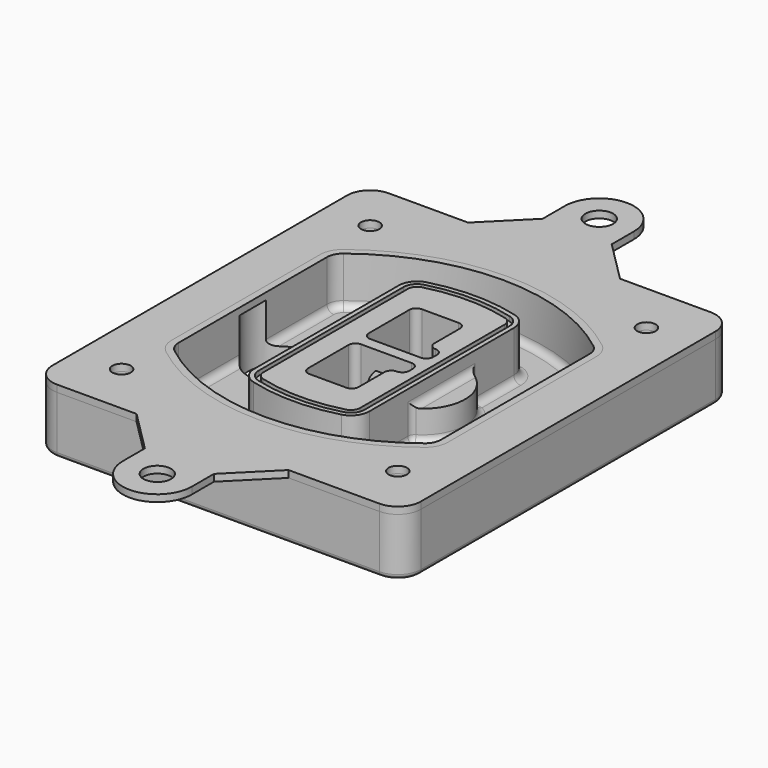
from build123d import *

# Parameters (mm, degrees)
F0_R      = 4
F1_DEPTH  = 25
F2_DEPTH  = 3
F3_DEPTH  = 18
F5_DEPTH  = 21
F6_DEPTH  = 2
F8_DEPTH  = 20
F9_DEPTH  = 16
F10_DEPTH = 25
F7_R      = 6
F7_R_2    = 4
F11_DEPTH = 6
F13_DEPTH = 9
F14_R     = 3
F15_R     = 2
F16_R     = 6
F16_R_2   = 4
F17_DEPTH = 3


with BuildPart() as f1:
    # F0 (on Top) → F1 (new body)
    with BuildSketch(Plane.XY):
        with BuildLine():
            ThreePointArc((-80, -80), (-77.0710678119, -87.0710678119), (-70, -90))
            Line((-70, -90), (70, -90))
            ThreePointArc((70, -90), (77.0710678119, -87.0710678119), (80, -80))
            Line((80, -80), (80, 80))
            ThreePointArc((80, 80), (77.0710678119, 87.0710678119), (70, 90))
            Line((70, 90), (-70, 90))
            ThreePointArc((-70, 90), (-77.0710678119, 87.0710678119), (-80, 80))
            Line((-80, 80), (-80, -80))
        make_face()
        with Locations((-60, -67.5)):
            Circle(F0_R, mode=Mode.SUBTRACT)
        with Locations((60, -67.5)):
            Circle(F0_R, mode=Mode.SUBTRACT)
        with Locations((-60, 67.5)):
            Circle(F0_R, mode=Mode.SUBTRACT)
        with BuildLine():
            ThreePointArc((-64, 40.2934422872), (-62.5820384798, 46.4328484224), (-58.6153846154, 51.3286200352))
            ThreePointArc((-58.6153846154, 51.3286200352), (0, 71.5), (58.6153846154, 51.3286200352))
            ThreePointArc((58.6153846154, 51.3286200352), (62.5820384798, 46.4328484224), (64, 40.2934422872))
            Line((64, 40.2934422872), (64, -40.2934422872))
            ThreePointArc((64, -40.2934422872), (62.5820384798, -46.4328484224), (58.6153846154, -51.3286200352))
            ThreePointArc((58.6153846154, -51.3286200352), (0, -71.5), (-58.6153846154, -51.3286200352))
            ThreePointArc((-58.6153846154, -51.3286200352), (-62.5820384798, -46.4328484224), (-64, -40.2934422872))
            Line((-64, -40.2934422872), (-64, 40.2934422872))
        make_face(mode=Mode.SUBTRACT)
        with Locations((60, 67.5)):
            Circle(F0_R, mode=Mode.SUBTRACT)
        with BuildLine():
            ThreePointArc((58.6153846154, 51.3286200352), (0, 71.5), (-58.6153846154, 51.3286200352))
            ThreePointArc((-58.6153846154, 51.3286200352), (-62.5820384798, 46.4328484224), (-64, 40.2934422872))
            Line((-64, 40.2934422872), (-64, -40.2934422872))
            ThreePointArc((-64, -40.2934422872), (-62.5820384798, -46.4328484224), (-58.6153846154, -51.3286200352))
            ThreePointArc((-58.6153846154, -51.3286200352), (0, -71.5), (58.6153846154, -51.3286200352))
            ThreePointArc((58.6153846154, -51.3286200352), (62.5820384798, -46.4328484224), (64, -40.2934422872))
            Line((64, -40.2934422872), (64, 40.2934422872))
            ThreePointArc((64, 40.2934422872), (62.5820384798, 46.4328484224), (58.6153846154, 51.3286200352))
        make_face()
        with BuildLine():
            Line((-60, -40.2934422872), (-60, 40.2934422872))
            ThreePointArc((-60, 40.2934422872), (-58.9871703427, 44.6787323838), (-56.1538461538, 48.1757121072))
            ThreePointArc((-56.1538461538, 48.1757121072), (0, 67.5), (56.1538461538, 48.1757121072))
            ThreePointArc((56.1538461538, 48.1757121072), (58.9871703427, 44.6787323838), (60, 40.2934422872))
            Line((60, 40.2934422872), (60, -40.2934422872))
            ThreePointArc((60, -40.2934422872), (58.9871703427, -44.6787323838), (56.1538461538, -48.1757121072))
            ThreePointArc((56.1538461538, -48.1757121072), (0, -67.5), (-56.1538461538, -48.1757121072))
            ThreePointArc((-56.1538461538, -48.1757121072), (-58.9871703427, -44.6787323838), (-60, -40.2934422872))
        make_face(mode=Mode.SUBTRACT)
        with BuildLine():
            ThreePointArc((-56.1538461538, 48.1757121072), (-58.9871703427, 44.6787323838), (-60, 40.2934422872))
            Line((-60, 40.2934422872), (-60, -40.2934422872))
            ThreePointArc((-60, -40.2934422872), (-58.9871703427, -44.6787323838), (-56.1538461538, -48.1757121072))
            ThreePointArc((-56.1538461538, -48.1757121072), (0, -67.5), (56.1538461538, -48.1757121072))
            ThreePointArc((56.1538461538, -48.1757121072), (58.9871703427, -44.6787323838), (60, -40.2934422872))
            Line((60, -40.2934422872), (60, 40.2934422872))
            ThreePointArc((60, 40.2934422872), (58.9871703427, 44.6787323838), (56.1538461538, 48.1757121072))
            ThreePointArc((56.1538461538, 48.1757121072), (0, 67.5), (-56.1538461538, 48.1757121072))
        make_face()
        with BuildLine():
            ThreePointArc((54.3076923077, 45.8110311612), (56.2910192399, 43.3631453548), (57, 40.2934422872))
            Line((57, 40.2934422872), (57, -40.2934422872))
            ThreePointArc((57, -40.2934422872), (56.2910192399, -43.3631453548), (54.3076923077, -45.8110311612))
            ThreePointArc((54.3076923077, -45.8110311612), (0, -64.5), (-54.3076923077, -45.8110311612))
            ThreePointArc((-54.3076923077, -45.8110311612), (-56.2910192399, -43.3631453548), (-57, -40.2934422872))
            Line((-57, -40.2934422872), (-57, 40.2934422872))
            ThreePointArc((-57, 40.2934422872), (-56.2910192399, 43.3631453548), (-54.3076923077, 45.8110311612))
            ThreePointArc((-54.3076923077, 45.8110311612), (0, 64.5), (54.3076923077, 45.8110311612))
        make_face(mode=Mode.SUBTRACT)
        with BuildLine():
            Line((57, -40.2934422872), (57, 40.2934422872))
            ThreePointArc((57, 40.2934422872), (56.2910192399, 43.3631453548), (54.3076923077, 45.8110311612))
            ThreePointArc((54.3076923077, 45.8110311612), (0, 64.5), (-54.3076923077, 45.8110311612))
            ThreePointArc((-54.3076923077, 45.8110311612), (-56.2910192399, 43.3631453548), (-57, 40.2934422872))
            Line((-57, 40.2934422872), (-57, -40.2934422872))
            ThreePointArc((-57, -40.2934422872), (-56.2910192399, -43.3631453548), (-54.3076923077, -45.8110311612))
            ThreePointArc((-54.3076923077, -45.8110311612), (0, -64.5), (54.3076923077, -45.8110311612))
            ThreePointArc((54.3076923077, -45.8110311612), (56.2910192399, -43.3631453548), (57, -40.2934422872))
        make_face()
    extrude(amount=-F1_DEPTH)

    # F0 (on Top) → F2 (join)
    with BuildSketch(Plane.XY):
        with BuildLine():
            ThreePointArc((-56.1538461538, 48.1757121072), (-58.9871703427, 44.6787323838), (-60, 40.2934422872))
            Line((-60, 40.2934422872), (-60, -40.2934422872))
            ThreePointArc((-60, -40.2934422872), (-58.9871703427, -44.6787323838), (-56.1538461538, -48.1757121072))
            ThreePointArc((-56.1538461538, -48.1757121072), (0, -67.5), (56.1538461538, -48.1757121072))
            ThreePointArc((56.1538461538, -48.1757121072), (58.9871703427, -44.6787323838), (60, -40.2934422872))
            Line((60, -40.2934422872), (60, 40.2934422872))
            ThreePointArc((60, 40.2934422872), (58.9871703427, 44.6787323838), (56.1538461538, 48.1757121072))
            ThreePointArc((56.1538461538, 48.1757121072), (0, 67.5), (-56.1538461538, 48.1757121072))
        make_face()
        with BuildLine():
            ThreePointArc((54.3076923077, 45.8110311612), (56.2910192399, 43.3631453548), (57, 40.2934422872))
            Line((57, 40.2934422872), (57, -40.2934422872))
            ThreePointArc((57, -40.2934422872), (56.2910192399, -43.3631453548), (54.3076923077, -45.8110311612))
            ThreePointArc((54.3076923077, -45.8110311612), (0, -64.5), (-54.3076923077, -45.8110311612))
            ThreePointArc((-54.3076923077, -45.8110311612), (-56.2910192399, -43.3631453548), (-57, -40.2934422872))
            Line((-57, -40.2934422872), (-57, 40.2934422872))
            ThreePointArc((-57, 40.2934422872), (-56.2910192399, 43.3631453548), (-54.3076923077, 45.8110311612))
            ThreePointArc((-54.3076923077, 45.8110311612), (0, 64.5), (54.3076923077, 45.8110311612))
        make_face(mode=Mode.SUBTRACT)
    extrude(amount=F2_DEPTH)

    # F0 (on Top) → F3 (cut)
    with BuildSketch(Plane.XY):
        with BuildLine():
            Line((57, -40.2934422872), (57, 40.2934422872))
            ThreePointArc((57, 40.2934422872), (56.2910192399, 43.3631453548), (54.3076923077, 45.8110311612))
            ThreePointArc((54.3076923077, 45.8110311612), (0, 64.5), (-54.3076923077, 45.8110311612))
            ThreePointArc((-54.3076923077, 45.8110311612), (-56.2910192399, 43.3631453548), (-57, 40.2934422872))
            Line((-57, 40.2934422872), (-57, -40.2934422872))
            ThreePointArc((-57, -40.2934422872), (-56.2910192399, -43.3631453548), (-54.3076923077, -45.8110311612))
            ThreePointArc((-54.3076923077, -45.8110311612), (0, -64.5), (54.3076923077, -45.8110311612))
            ThreePointArc((54.3076923077, -45.8110311612), (56.2910192399, -43.3631453548), (57, -40.2934422872))
        make_face()
    extrude(amount=-F3_DEPTH, mode=Mode.SUBTRACT)

    # F4 (on face) → F5 (join, through all)
    with BuildSketch(Plane.XY.offset(3)):
        with BuildLine():
            ThreePointArc((-25, -39.2465276821), (-23.3511545998, -44.1109737193), (-19.0842911877, -46.9702398883))
            ThreePointArc((-19.0842911877, -46.9702398883), (0, -49.5), (19.0842911877, -46.9702398883))
            ThreePointArc((19.0842911877, -46.9702398883), (23.3511545998, -44.1109737193), (25, -39.2465276821))
            Line((25, -39.2465276821), (25, 39.2465276821))
            ThreePointArc((25, 39.2465276821), (23.3511545998, 44.1109737193), (19.0842911877, 46.9702398883))
            ThreePointArc((19.0842911877, 46.9702398883), (0, 49.5), (-19.0842911877, 46.9702398883))
            ThreePointArc((-19.0842911877, 46.9702398883), (-23.3511545998, 44.1109737193), (-25, 39.2465276821))
            Line((-25, 39.2465276821), (-25, -39.2465276821))
        make_face()
        with BuildLine():
            ThreePointArc((18.5632183908, 45.0393118368), (21.7633659499, 42.89486221), (23, 39.2465276821))
            Line((23, 39.2465276821), (23, -39.2465276821))
            ThreePointArc((23, -39.2465276821), (21.7633659499, -42.89486221), (18.5632183908, -45.0393118368))
            ThreePointArc((18.5632183908, -45.0393118368), (0, -47.5), (-18.5632183908, -45.0393118368))
            ThreePointArc((-18.5632183908, -45.0393118368), (-21.7633659499, -42.89486221), (-23, -39.2465276821))
            Line((-23, -39.2465276821), (-23, 39.2465276821))
            ThreePointArc((-23, 39.2465276821), (-21.7633659499, 42.89486221), (-18.5632183908, 45.0393118368))
            ThreePointArc((-18.5632183908, 45.0393118368), (0, 47.5), (18.5632183908, 45.0393118368))
        make_face(mode=Mode.SUBTRACT)
        with BuildLine():
            Line((23, -39.2465276821), (23, 39.2465276821))
            ThreePointArc((23, 39.2465276821), (21.7633659499, 42.89486221), (18.5632183908, 45.0393118368))
            ThreePointArc((18.5632183908, 45.0393118368), (0, 47.5), (-18.5632183908, 45.0393118368))
            ThreePointArc((-18.5632183908, 45.0393118368), (-21.7633659499, 42.89486221), (-23, 39.2465276821))
            Line((-23, 39.2465276821), (-23, -39.2465276821))
            ThreePointArc((-23, -39.2465276821), (-21.7633659499, -42.89486221), (-18.5632183908, -45.0393118368))
            ThreePointArc((-18.5632183908, -45.0393118368), (0, -47.5), (18.5632183908, -45.0393118368))
            ThreePointArc((18.5632183908, -45.0393118368), (21.7633659499, -42.89486221), (23, -39.2465276821))
        make_face()
        with BuildLine():
            ThreePointArc((18.0421455939, 43.1083837852), (20.1755772999, 41.6787507007), (21, 39.2465276821))
            Line((21, 39.2465276821), (21, -39.2465276821))
            ThreePointArc((21, -39.2465276821), (20.1755772999, -41.6787507007), (18.0421455939, -43.1083837852))
            ThreePointArc((18.0421455939, -43.1083837852), (0, -45.5), (-18.0421455939, -43.1083837852))
            ThreePointArc((-18.0421455939, -43.1083837852), (-20.1755772999, -41.6787507007), (-21, -39.2465276821))
            Line((-21, -39.2465276821), (-21, 39.2465276821))
            ThreePointArc((-21, 39.2465276821), (-20.1755772999, 41.6787507007), (-18.0421455939, 43.1083837852))
            ThreePointArc((-18.0421455939, 43.1083837852), (0, 45.5), (18.0421455939, 43.1083837852))
        make_face(mode=Mode.SUBTRACT)
        with BuildLine():
            Line((21, -39.2465276821), (21, 39.2465276821))
            ThreePointArc((21, 39.2465276821), (20.1755772999, 41.6787507007), (18.0421455939, 43.1083837852))
            ThreePointArc((18.0421455939, 43.1083837852), (0, 45.5), (-18.0421455939, 43.1083837852))
            ThreePointArc((-18.0421455939, 43.1083837852), (-20.1755772999, 41.6787507007), (-21, 39.2465276821))
            Line((-21, 39.2465276821), (-21, -39.2465276821))
            ThreePointArc((-21, -39.2465276821), (-20.1755772999, -41.6787507007), (-18.0421455939, -43.1083837852))
            ThreePointArc((-18.0421455939, -43.1083837852), (0, -45.5), (18.0421455939, -43.1083837852))
            ThreePointArc((18.0421455939, -43.1083837852), (20.1755772999, -41.6787507007), (21, -39.2465276821))
        make_face()
        with BuildLine():
            Line((-8, -2.5), (14, -2.5))
            ThreePointArc((14, -2.5), (16.1213203436, -3.3786796564), (17, -5.5))
            Line((17, -5.5), (17, -7.5))
            ThreePointArc((17, -7.5), (16.1213203436, -9.6213203436), (14, -10.5))
            ThreePointArc((14, -10.5), (11.8786796564, -11.3786796564), (11, -13.5))
            Line((11, -13.5), (11, -27.5))
            ThreePointArc((11, -27.5), (10.1213203436, -29.6213203436), (8, -30.5))
            Line((8, -30.5), (-8, -30.5))
            ThreePointArc((-8, -30.5), (-10.1213203436, -29.6213203436), (-11, -27.5))
            Line((-11, -27.5), (-11, -5.5))
            ThreePointArc((-11, -5.5), (-10.1213203436, -3.3786796564), (-8, -2.5))
        make_face(mode=Mode.SUBTRACT)
        with BuildLine():
            ThreePointArc((-8, 2.5), (-10.1213203436, 3.3786796564), (-11, 5.5))
            Line((-11, 5.5), (-11, 27.5))
            ThreePointArc((-11, 27.5), (-10.1213203436, 29.6213203436), (-8, 30.5))
            Line((-8, 30.5), (8, 30.5))
            ThreePointArc((8, 30.5), (10.1213203436, 29.6213203436), (11, 27.5))
            Line((11, 27.5), (11, 13.5))
            ThreePointArc((11, 13.5), (11.8786796564, 11.3786796564), (14, 10.5))
            ThreePointArc((14, 10.5), (16.1213203436, 9.6213203436), (17, 7.5))
            Line((17, 7.5), (17, 5.5))
            ThreePointArc((17, 5.5), (16.1213203436, 3.3786796564), (14, 2.5))
            Line((14, 2.5), (-8, 2.5))
        make_face(mode=Mode.SUBTRACT)
    extrude(amount=-F5_DEPTH)

    # F4 (on face) → F6 (cut)
    with BuildSketch(Plane.XY.offset(3)):
        with BuildLine():
            Line((23, -39.2465276821), (23, 39.2465276821))
            ThreePointArc((23, 39.2465276821), (21.7633659499, 42.89486221), (18.5632183908, 45.0393118368))
            ThreePointArc((18.5632183908, 45.0393118368), (0, 47.5), (-18.5632183908, 45.0393118368))
            ThreePointArc((-18.5632183908, 45.0393118368), (-21.7633659499, 42.89486221), (-23, 39.2465276821))
            Line((-23, 39.2465276821), (-23, -39.2465276821))
            ThreePointArc((-23, -39.2465276821), (-21.7633659499, -42.89486221), (-18.5632183908, -45.0393118368))
            ThreePointArc((-18.5632183908, -45.0393118368), (0, -47.5), (18.5632183908, -45.0393118368))
            ThreePointArc((18.5632183908, -45.0393118368), (21.7633659499, -42.89486221), (23, -39.2465276821))
        make_face()
        with BuildLine():
            ThreePointArc((18.0421455939, 43.1083837852), (20.1755772999, 41.6787507007), (21, 39.2465276821))
            Line((21, 39.2465276821), (21, -39.2465276821))
            ThreePointArc((21, -39.2465276821), (20.1755772999, -41.6787507007), (18.0421455939, -43.1083837852))
            ThreePointArc((18.0421455939, -43.1083837852), (0, -45.5), (-18.0421455939, -43.1083837852))
            ThreePointArc((-18.0421455939, -43.1083837852), (-20.1755772999, -41.6787507007), (-21, -39.2465276821))
            Line((-21, -39.2465276821), (-21, 39.2465276821))
            ThreePointArc((-21, 39.2465276821), (-20.1755772999, 41.6787507007), (-18.0421455939, 43.1083837852))
            ThreePointArc((-18.0421455939, 43.1083837852), (0, 45.5), (18.0421455939, 43.1083837852))
        make_face(mode=Mode.SUBTRACT)
    extrude(amount=-F6_DEPTH, mode=Mode.SUBTRACT)

    # F7 (on face) → F8 (join)
    with BuildSketch(Plane(origin=(0, 0, -25), x_dir=(1, 0, 0), z_dir=(0, 0, -1))):
        with BuildLine():
            ThreePointArc((3.28842436, 0), (16.7567035675, 13.4682792075), (30.224982775, 0))
            Line((30.224982775, 0), (35.224982775, 0))
            ThreePointArc((35.224982775, 0), (16.7567035675, 18.4682792075), (-1.71157564, 0))
            Line((-1.71157564, 0), (3.28842436, 0))
        make_face()
        with BuildLine():
            Line((3.28842436, 0), (30.224982775, 0))
            ThreePointArc((30.224982775, 0), (16.7567035675, 13.4682792075), (3.28842436, 0))
        make_face()
        with BuildLine():
            ThreePointArc((3.28842436, 0), (16.7567035675, -13.4682792075), (30.224982775, 0))
            Line((30.224982775, 0), (3.28842436, 0))
        make_face()
        with BuildLine():
            Line((35.224982775, 0), (30.224982775, 0))
            ThreePointArc((30.224982775, 0), (16.7567035675, -13.4682792075), (3.28842436, 0))
            Line((3.28842436, 0), (-1.71157564, 0))
            ThreePointArc((-1.71157564, 0), (16.7567035675, -18.4682792075), (35.224982775, 0))
        make_face()
    extrude(amount=-F8_DEPTH)

    # F7 (on face) → F9 (cut)
    with BuildSketch(Plane(origin=(0, 0, -25), x_dir=(1, 0, 0), z_dir=(0, 0, -1))):
        with BuildLine():
            Line((3.28842436, 0), (30.224982775, 0))
            ThreePointArc((30.224982775, 0), (16.7567035675, 13.4682792075), (3.28842436, 0))
        make_face()
        with BuildLine():
            ThreePointArc((3.28842436, 0), (16.7567035675, -13.4682792075), (30.224982775, 0))
            Line((30.224982775, 0), (3.28842436, 0))
        make_face()
    extrude(amount=-F9_DEPTH, mode=Mode.SUBTRACT)

    # F7 (on face) → F10 (cut)
    with BuildSketch(Plane(origin=(0, 0, -25), x_dir=(1, 0, 0), z_dir=(0, 0, -1))):
        with BuildLine():
            Line((-59.0318229325, 0), (-32.0952645175, 0))
            ThreePointArc((-32.0952645175, 0), (-45.563543725, 13.4682792075), (-59.0318229325, 0))
        make_face()
        with BuildLine():
            ThreePointArc((-59.0318229325, 0), (-45.563543725, -13.4682792075), (-32.0952645175, 0))
            Line((-32.0952645175, 0), (-59.0318229325, 0))
        make_face()
    extrude(amount=-F10_DEPTH, mode=Mode.SUBTRACT)

    # F7 (on face) → F11 (cut)
    with BuildSketch(Plane(origin=(0, 0, -25), x_dir=(1, 0, 0), z_dir=(0, 0, -1))):
        with Locations((60, -67.5)):
            Circle(F7_R)
        with Locations((60, -67.5)):
            Circle(F7_R_2, mode=Mode.SUBTRACT)
        with Locations((60, -67.5)):
            Circle(F7_R)
        with Locations((60, -67.5)):
            Circle(F7_R_2, mode=Mode.SUBTRACT)
        with Locations((-60, -67.5)):
            Circle(F7_R)
        with Locations((-60, -67.5)):
            Circle(F7_R_2, mode=Mode.SUBTRACT)
        with Locations((-60, -67.5)):
            Circle(F7_R)
        with Locations((-60, -67.5)):
            Circle(F7_R_2, mode=Mode.SUBTRACT)
        with Locations((-60, 67.5)):
            Circle(F7_R)
        with Locations((-60, 67.5)):
            Circle(F7_R_2, mode=Mode.SUBTRACT)
        with Locations((-60, 67.5)):
            Circle(F7_R)
        with Locations((-60, 67.5)):
            Circle(F7_R_2, mode=Mode.SUBTRACT)
        with Locations((60, 67.5)):
            Circle(F7_R)
        with Locations((60, 67.5)):
            Circle(F7_R_2, mode=Mode.SUBTRACT)
        with Locations((60, 67.5)):
            Circle(F7_R)
        with Locations((60, 67.5)):
            Circle(F7_R_2, mode=Mode.SUBTRACT)
    extrude(amount=-F11_DEPTH, mode=Mode.SUBTRACT)

    # F12 (on face) → F13 (cut, through all)
    with BuildSketch(Plane(origin=(0, 0, -9), x_dir=(1, 0, 0), z_dir=(0, 0, -1))):
        with BuildLine():
            Line((11, 13.5), (11, 17.5481537753))
            ThreePointArc((11, 17.5481537753), (2.5696536419, 11.8239143813), (-1.5415842455, 2.5))
            Line((-1.5415842455, 2.5), (3.5224848595, 2.5))
            ThreePointArc((3.5224848595, 2.5), (6.1857188154, 8.3455872281), (11.2536447004, 12.2927168648))
            ThreePointArc((11.2536447004, 12.2927168648), (11.0640958889, 12.8831798879), (11, 13.5))
        make_face()
        with BuildLine():
            ThreePointArc((11.2536447004, -12.2927168648), (6.1857188154, -8.3455872281), (3.5224848595, -2.5))
            Line((3.5224848595, -2.5), (-1.5415842455, -2.5))
            ThreePointArc((-1.5415842455, -2.5), (2.5696536419, -11.8239143813), (11, -17.5481537753))
            Line((11, -17.5481537753), (11, -13.5))
            ThreePointArc((11, -13.5), (11.0640958889, -12.8831798879), (11.2536447004, -12.2927168648))
        make_face()
        with BuildLine():
            ThreePointArc((11.2536447004, 12.2927168648), (6.1857188154, 8.3455872281), (3.5224848595, 2.5))
            Line((3.5224848595, 2.5), (14, 2.5))
            ThreePointArc((14, 2.5), (16.1213203436, 3.3786796564), (17, 5.5))
            Line((17, 5.5), (17, 7.5))
            ThreePointArc((17, 7.5), (16.1213203436, 9.6213203436), (14, 10.5))
            ThreePointArc((14, 10.5), (12.3601599782, 10.9878446101), (11.2536447004, 12.2927168648))
        make_face()
        with BuildLine():
            Line((14, -2.5), (3.5224848595, -2.5))
            ThreePointArc((3.5224848595, -2.5), (6.1857188154, -8.3455872281), (11.2536447004, -12.2927168648))
            ThreePointArc((11.2536447004, -12.2927168648), (12.3601599782, -10.9878446101), (14, -10.5))
            ThreePointArc((14, -10.5), (16.1213203436, -9.6213203436), (17, -7.5))
            Line((17, -7.5), (17, -5.5))
            ThreePointArc((17, -5.5), (16.1213203436, -3.3786796564), (14, -2.5))
        make_face()
    extrude(amount=F13_DEPTH, mode=Mode.SUBTRACT)

    # F14
    f14_edges = [f1.edges().sort_by_distance(p)[0] for p in [
        (-57, -23.703476, -18),
        (-57, 23.703476, -18),
        (25, 0, -5),
        (25, 16.526506, -11.5),
        (25, -16.526506, -11.5),
        (25, -27.886517, -18),
        (35.224983, 0, -18),
    ]]
    fillet(f14_edges, radius=F14_R)

    # F15
    f15_edges = [f1.edges().sort_by_distance(p)[0] for p in [
        (0, -90, -25),
    ]]
    fillet(f15_edges, radius=F15_R)


with BuildPart() as f17:
    # F16 (on face) → F17 (new body, through all)
    with BuildSketch(Plane.XY):
        with BuildLine():
            Line((-17.4782523612, 108), (-35.4782523612, 90))
            Line((-35.4782523612, 90), (30.5217476388, 90))
            Line((30.5217476388, 90), (12.5217476388, 108))
            Line((12.5217476388, 108), (12.5217476388, 120))
            ThreePointArc((12.5217476388, 120), (-2.4782523612, 135), (-17.4782523612, 120))
            Line((-17.4782523612, 120), (-17.4782523612, 108))
        make_face()
        with Locations((-2.4782523612, 120)):
            Circle(F16_R, mode=Mode.SUBTRACT)
        with BuildLine():
            Line((-35.4782523612, 90), (-70, 90))
            ThreePointArc((-70, 90), (-77.0710678119, 87.0710678119), (-80, 80))
            Line((-80, 80), (-80, -80))
            ThreePointArc((-80, -80), (-77.0710678119, -87.0710678119), (-70, -90))
            Line((-70, -90), (-35.4782523612, -90))
            Line((-35.4782523612, -90), (30.5217476388, -90))
            Line((30.5217476388, -90), (70, -90))
            ThreePointArc((70, -90), (77.0710678119, -87.0710678119), (80, -80))
            Line((80, -80), (80, 80))
            ThreePointArc((80, 80), (77.0710678119, 87.0710678119), (70, 90))
            Line((70, 90), (30.5217476388, 90))
            Line((30.5217476388, 90), (-35.4782523612, 90))
        make_face()
        with Locations((-60, -67.5)):
            Circle(F16_R_2, mode=Mode.SUBTRACT)
        with Locations((60, -67.5)):
            Circle(F16_R_2, mode=Mode.SUBTRACT)
        with Locations((-60, 67.5)):
            Circle(F16_R_2, mode=Mode.SUBTRACT)
        with BuildLine():
            ThreePointArc((56.1538461538, -48.1757121072), (0, -67.5), (-56.1538461538, -48.1757121072))
            ThreePointArc((-56.1538461538, -48.1757121072), (-58.9871703427, -44.6787323838), (-60, -40.2934422872))
            Line((-60, -40.2934422872), (-60, 40.2934422872))
            ThreePointArc((-60, 40.2934422872), (-58.9871703427, 44.6787323838), (-56.1538461538, 48.1757121072))
            ThreePointArc((-56.1538461538, 48.1757121072), (0, 67.5), (56.1538461538, 48.1757121072))
            ThreePointArc((56.1538461538, 48.1757121072), (58.9871703427, 44.6787323838), (60, 40.2934422872))
            Line((60, 40.2934422872), (60, -40.2934422872))
            ThreePointArc((60, -40.2934422872), (58.9871703427, -44.6787323838), (56.1538461538, -48.1757121072))
        make_face(mode=Mode.SUBTRACT)
        with Locations((60, 67.5)):
            Circle(F16_R_2, mode=Mode.SUBTRACT)
        with BuildLine():
            Line((30.5217476388, -90), (-35.4782523612, -90))
            Line((-35.4782523612, -90), (-17.4782523612, -108))
            Line((-17.4782523612, -108), (-17.4782523612, -120))
            ThreePointArc((-17.4782523612, -120), (-2.4782523612, -135), (12.5217476388, -120))
            Line((12.5217476388, -120), (12.5217476388, -108))
            Line((12.5217476388, -108), (30.5217476388, -90))
        make_face()
        with Locations((-2.4782523612, -120)):
            Circle(F16_R, mode=Mode.SUBTRACT)
    extrude(amount=F17_DEPTH)


solid = Compound([f1.part, f17.part])
